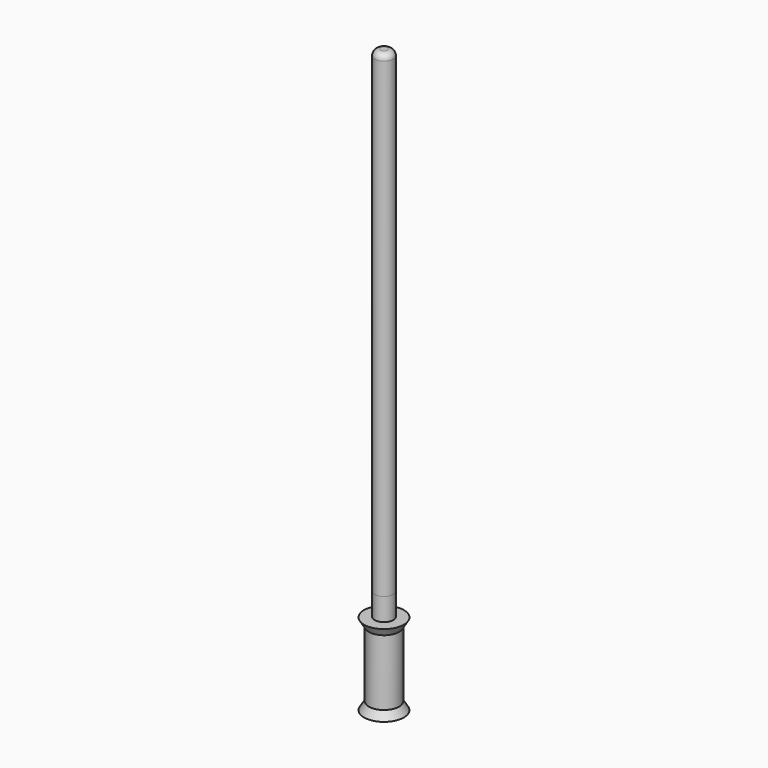
from build123d import *

# Parameters (mm, degrees)
F0_W     = 19.2424261712
F0_H     = 84.0509093954
F2_W     = 11.9439382106
F2_H     = 28.7805683911
F4_DEPTH = 609.6
F5_R     = 7.62


with BuildPart() as f1:
    # F0 (on Front) → F1 (revolve)
    with BuildSketch(Plane.XZ):
        Polygon((-19.2424261712, 38.9466661084), (0, 38.9466661084), (0, 49.1066661084), (-25.4, 49.1066661084), align=None)
        Polygon((0, -55.2642432871), (0, -45.1042432871), (-19.2424261712, -45.1042432871), (-25.4, -55.2642432871), align=None)
        with Locations((-9.6212130856, -3.0787885894)):
            Rectangle(F0_W, F0_H)
    revolve(axis=Axis((0, 0, -50.1842432871), (0, 0, 1)))


with BuildPart() as f3:
    # F2 (on Right) → F3 (revolve)
    with BuildSketch(Plane.YZ):
        with Locations((5.9719691053, 64.3245857209)):
            Rectangle(F2_W, F2_H)
    revolve(axis=Axis((0, 0, 64.3245857209), (0, 0, 1)))

    # F4 (add): a face of the model
    f4_faces = [f3.faces().sort_by_distance(p)[0] for p in [
        (0, 0, 78.7148699164),
    ]]
    extrude(f4_faces, amount=F4_DEPTH)

    # F5
    f5_edges = [f3.edges().sort_by_distance(p)[0] for p in [
        (0, -11.943938, 688.31487),
    ]]
    fillet(f5_edges, radius=F5_R)


solid = Compound([f1.part, f3.part])
